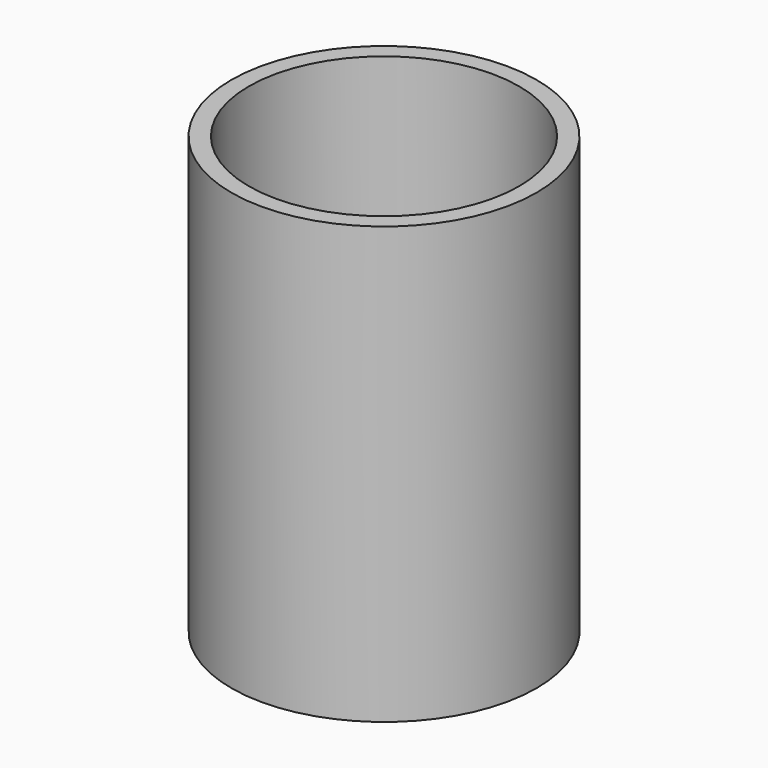
from build123d import *

# Parameters (mm, degrees)
F0_W     = 22.225
F0_H     = 63.5
F3_D     = 10.16
F2_R     = 19.682221
F4_DEPTH = 61.468


with BuildPart() as f1:
    # F0 (on Front) → F1 (revolve)
    with BuildSketch(Plane.XZ):
        with Locations((-11.1125, 0)):
            Rectangle(F0_W, F0_H)
    revolve(axis=Axis((0, 0, 0), (0, 0, -1)))

    # F3 (through all)
    with Locations(Plane.XY.offset(31.75)):
        with Locations((0, 0)):
            Hole(F3_D / 2)

    # F2 (on face) → F4 (cut)
    with BuildSketch(Plane.XY.offset(31.75)):
        Circle(F2_R)
    extrude(amount=-F4_DEPTH, mode=Mode.SUBTRACT)


solid = f1.part
